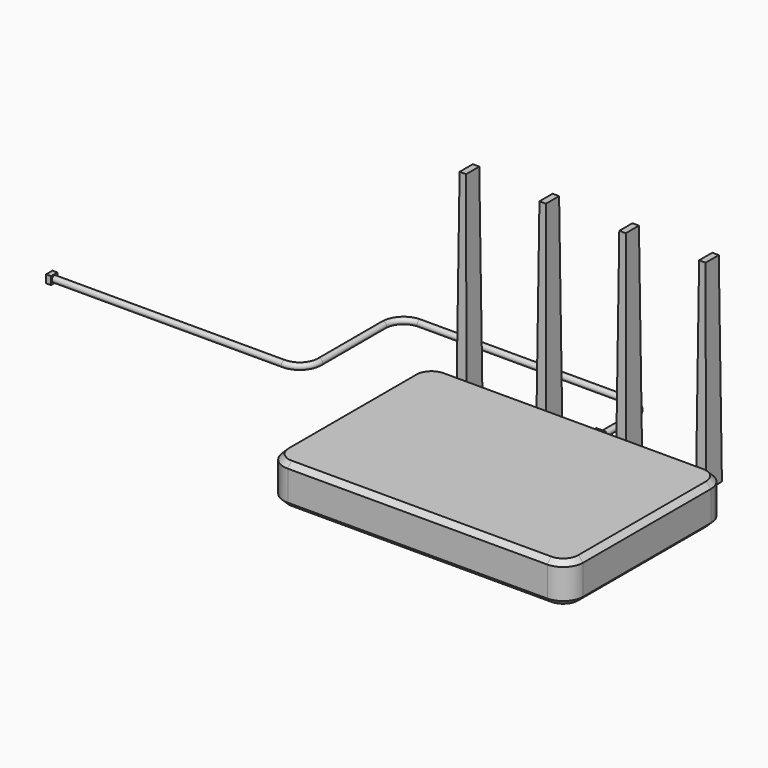
from build123d import *

# Parameters (mm, degrees)
F0_W      = 300
F0_H      = 200
F1_DEPTH  = 40
F2_R      = 20
F3_SIZE   = 5
F4_W      = 20
F4_H      = 10
F5_DEPTH  = 125
F6_W      = 10
F6_H      = 20
F7_DEPTH  = 200
F7_TAPER  = 0.5
F8_W      = 10
F8_H      = 10
F9_DEPTH  = 20
F10_R     = 3
F14_W     = 8
F14_H     = 8
F15_DEPTH = 5


with BuildPart() as f1:
    # F0 (on Top) → F1 (new body)
    with BuildSketch(Plane.XY):
        Rectangle(F0_W, F0_H)
    extrude(amount=F1_DEPTH)

    # F2
    f2_edges = [f1.edges().sort_by_distance(p)[0] for p in [
        (-150, -100, 20),
        (150, -100, 20),
        (150, 100, 20),
        (-150, 100, 20),
    ]]
    fillet(f2_edges, radius=F2_R)

    # F3
    f3_edges = [f1.edges().sort_by_distance(p)[0] for p in [
        (0, -100, 40),
        (0, -100, 0),
    ]]
    chamfer(f3_edges, length=F3_SIZE)

    # F4 (on Right) → F5 (join, symmetric)
    with BuildSketch(Plane.YZ):
        with Locations((100, 10)):
            Rectangle(F4_W, F4_H)
    extrude(amount=F5_DEPTH, both=True)

    # F6 (on face) → F7 (join)
    with BuildSketch(Plane.XY.offset(15)):
        with Locations((-120, 115)):
            Rectangle(F6_W, F6_H)
        with Locations((-40, 115)):
            Rectangle(F6_W, F6_H)
        with Locations((40, 115)):
            Rectangle(F6_W, F6_H)
        with Locations((120, 115)):
            Rectangle(F6_W, F6_H)
    extrude(amount=F7_DEPTH, taper=F7_TAPER)

    # F8 (on face) → F9 (join, symmetric)
    with BuildSketch(Plane(origin=(0, 110, 0), x_dir=(-1, 0, 0), z_dir=(0, 1, 0))):
        with Locations((0, 13)):
            Rectangle(F8_W, F8_H)
    extrude(amount=F9_DEPTH, both=True)

    # F13: sweep along a path in F12
    with BuildLine(Plane.XY.offset(13)) as f13_path:
        Line((0, 130), (0, 150))
        Line((0, 150), (0, 170))
        ThreePointArc((0, 170), (-5.8578643763, 184.1421356237), (-20, 190))
        Line((-20, 190), (-230, 190))
        ThreePointArc((-230, 190), (-244.1421356237, 184.1421356237), (-250, 170))
        Line((-250, 170), (-250, 90))
        ThreePointArc((-250, 90), (-255.8578643763, 75.8578643763), (-270, 70))
        Line((-270, 70), (-500, 70))
    # F10 (on face) → F13 (sweep)
    with BuildSketch(Plane(origin=(0, 130, 0), x_dir=(-1, 0, 0), z_dir=(0, 1, 0))):
        with Locations((0, 13)):
            Circle(F10_R)
    sweep(path=f13_path.line)

    # F14 (on face) → F15 (join)
    with BuildSketch(Plane(origin=(-500, 0, 0), x_dir=(0, -1, 0), z_dir=(-1, 0, 0))):
        with Locations((-70, 13)):
            Rectangle(F14_W, F14_H)
    extrude(amount=F15_DEPTH)


solid = f1.part
